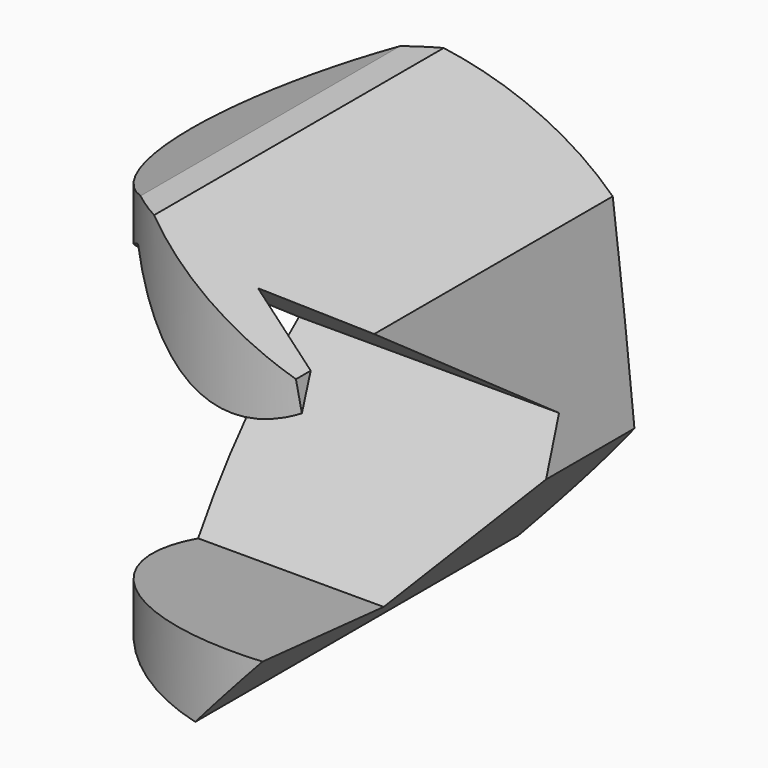
from build123d import *

# Parameters (mm, degrees)
F0_R     = 50.8
F1_DEPTH = 63.5
F3_DEPTH = 76.2
F5_DEPTH = 76.2


with BuildPart() as f1:
    # F0 (on Top) → F1 (new body, symmetric)
    with BuildSketch(Plane.XY):
        Circle(F0_R)
    extrude(amount=F1_DEPTH, both=True)

    # F2 (on Front) → F3 (intersect, symmetric)
    with BuildSketch(Plane.XZ):
        Polygon((-9.978701, -39.75891), (21.740365, -4.641373), (14.060883, 42.053018), (-27.234341, 65.162434), (-71.04916, 47.285013), (-84.390123, 1.882818), (-57.211212, -36.855372), align=None)
    extrude(amount=F3_DEPTH, both=True, mode=Mode.INTERSECT)

    # F4 (on Right) → F5 (cut, symmetric)
    with BuildSketch(Plane.YZ):
        Polygon((-38.51945, 51.898345), (-59.98449, 15.143144), (-67.335531, -16.613351), (2.058293, -34.255847), (24.993537, 6.615937), align=None)
    extrude(amount=F5_DEPTH, both=True, mode=Mode.SUBTRACT)


solid = f1.part
